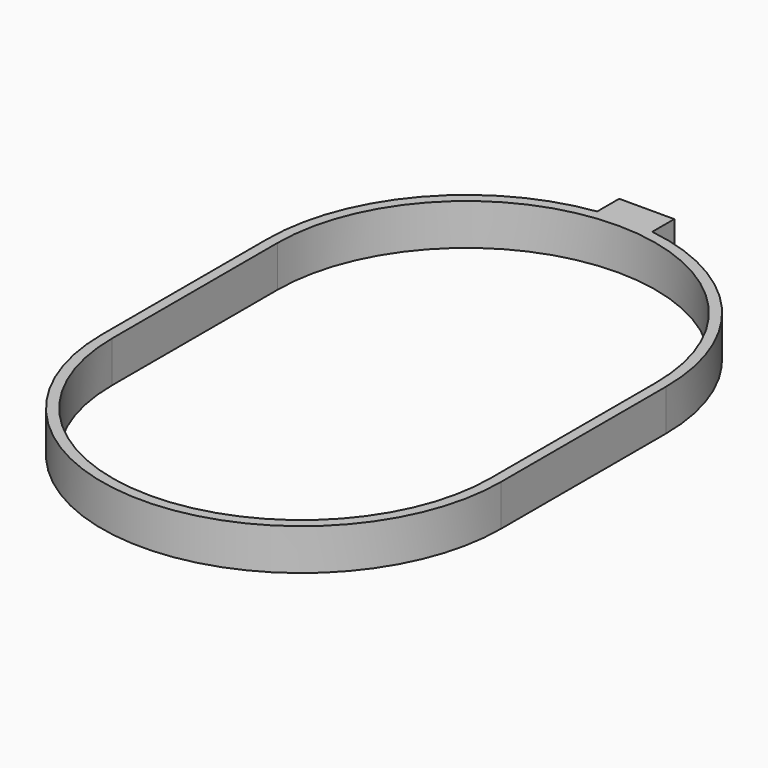
from build123d import *

# Parameters (mm, degrees)
PAD_DEPTH = 3


with BuildPart() as part:
    # Sketch → Pad (new body)
    with BuildSketch(Plane.XY):
        with BuildLine():
            ThreePointArc((-2, -0.138593), (-10.937318, -4.980279), (-14.5, -14.499988))
            Line((-14.5, -14.499988), (-14.5, -29.5))
            ThreePointArc((-14.5, -29.5), (6e-06, -44), (14.5, -29.499988))
            Line((14.5, -14.499962), (14.5, -29.499988))
            ThreePointArc((14.5, -14.499962), (10.937309, -4.980269), (2, -0.138593))
            Line((2, -0.138593), (2, 1.861407))
            Line((2, 1.861407), (-2, 1.861407))
            Line((-2, 1.861407), (-2, -0.138593))
        make_face()
        with BuildLine():
            ThreePointArc((13.75, -14.499989), (0, -0.75), (-13.75, -14.499989))
            Line((-13.75, -14.499989), (-13.75, -29.500003))
            ThreePointArc((-13.75, -29.500003), (1e-06, -43.25), (13.75, -29.5))
            Line((13.75, -14.499989), (13.75, -29.5))
        make_face(mode=Mode.SUBTRACT)
    extrude(amount=PAD_DEPTH)


solid = part.part
